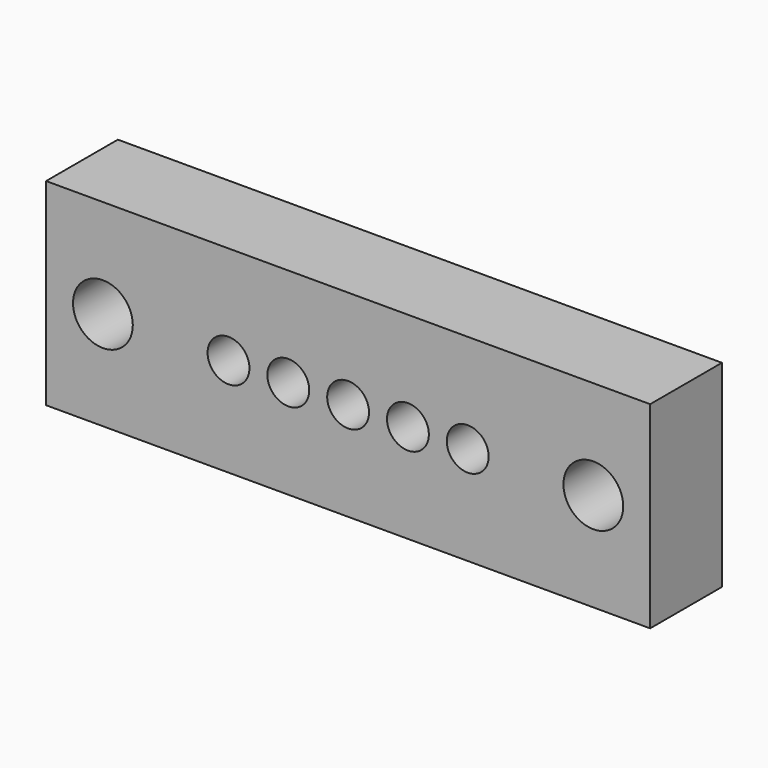
from build123d import *

# Parameters (mm, degrees)
F0_W     = 50.5
F0_H     = 16.5
F0_R     = 2.5
F0_R_2   = 1.75
F1_DEPTH = 7.5


with BuildPart() as f1:
    # F0 (on Front) → F1 (new body)
    with BuildSketch(Plane.XZ):
        with Locations((2.100501, 0)):
            Rectangle(F0_W, F0_H)
        with Locations((-18.399499, 0)):
            Circle(F0_R, mode=Mode.SUBTRACT)
        with Locations((-7.899499, 0)):
            Circle(F0_R_2, mode=Mode.SUBTRACT)
        with Locations((-2.899499, 0)):
            Circle(F0_R_2, mode=Mode.SUBTRACT)
        with Locations((2.100501, 0)):
            Circle(F0_R_2, mode=Mode.SUBTRACT)
        with Locations((7.100501, 0)):
            Circle(F0_R_2, mode=Mode.SUBTRACT)
        with Locations((12.100501, 0)):
            Circle(F0_R_2, mode=Mode.SUBTRACT)
        with Locations((22.600501, 0)):
            Circle(F0_R, mode=Mode.SUBTRACT)
    extrude(amount=F1_DEPTH)


solid = f1.part
